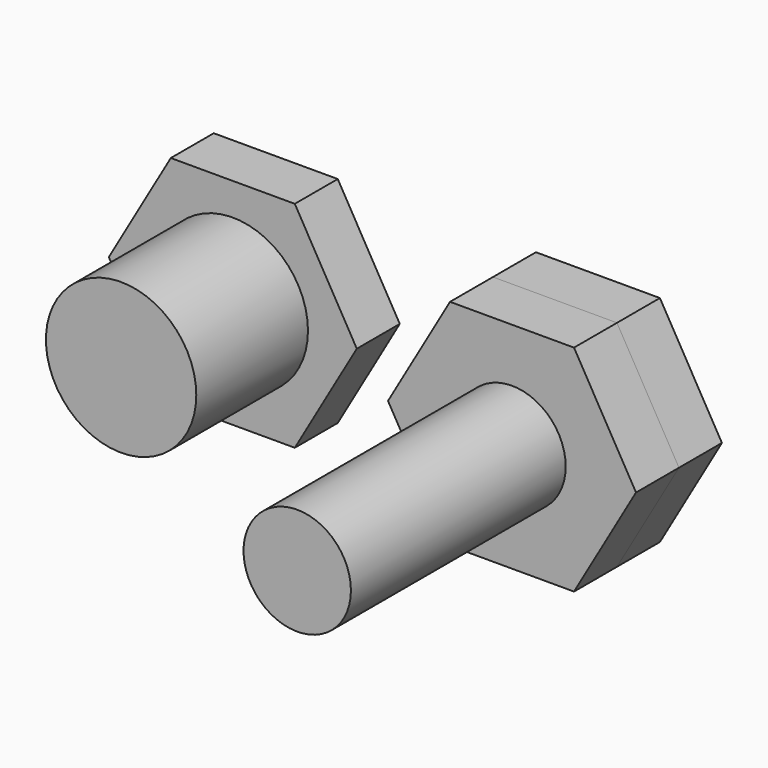
from build123d import *

# Parameters (mm, degrees)
F0_R     = 5
F1_DEPTH = 30
F0_R_2   = 7
F2_DEPTH = 13
F3_DEPTH = 5
F4_DEPTH = 5


with BuildPart() as f1:
    # F0 (on Front) → F1 (new body)
    with BuildSketch(Plane.XZ):
        with Locations((30, 0)):
            Circle(F0_R)
    extrude(amount=F1_DEPTH)



with BuildPart() as f2:
    # F0 (on Front) → F2 (new body)
    with BuildSketch(Plane.XZ):
        Circle(F0_R_2)
    extrude(amount=F2_DEPTH)


with BuildPart() as f1_1:
    add(f1.part)

    add(f2.part)  # F3 merges F2
    # F0 (on Front) → F3 (join)
    with BuildSketch(Plane.XZ):
        Polygon((5.773503, 10), (-5.773503, 10), (-11.547005, 0), (-5.773503, -10), (5.773503, -10), (11.547005, 0), align=None)
        Circle(F0_R_2, mode=Mode.SUBTRACT)
        Circle(F0_R_2)
        Polygon((35.773503, 10), (24.226497, 10), (18.452995, 0), (24.226497, -10), (35.773503, -10), (41.547005, 0), align=None)
        with Locations((30, 0)):
            Circle(F0_R, mode=Mode.SUBTRACT)
        with Locations((30, 0)):
            Circle(F0_R)
    extrude(amount=-F3_DEPTH)


with BuildPart() as f4:
    # F0 (on Front) → F4 (new body)
    with BuildSketch(Plane.XZ):
        Polygon((35.773503, 10), (24.226497, 10), (18.452995, 0), (24.226497, -10), (35.773503, -10), (41.547005, 0), align=None)
        with Locations((30, 0)):
            Circle(F0_R, mode=Mode.SUBTRACT)
    extrude(amount=F4_DEPTH)


solid = Compound([f1_1.part, f4.part])
